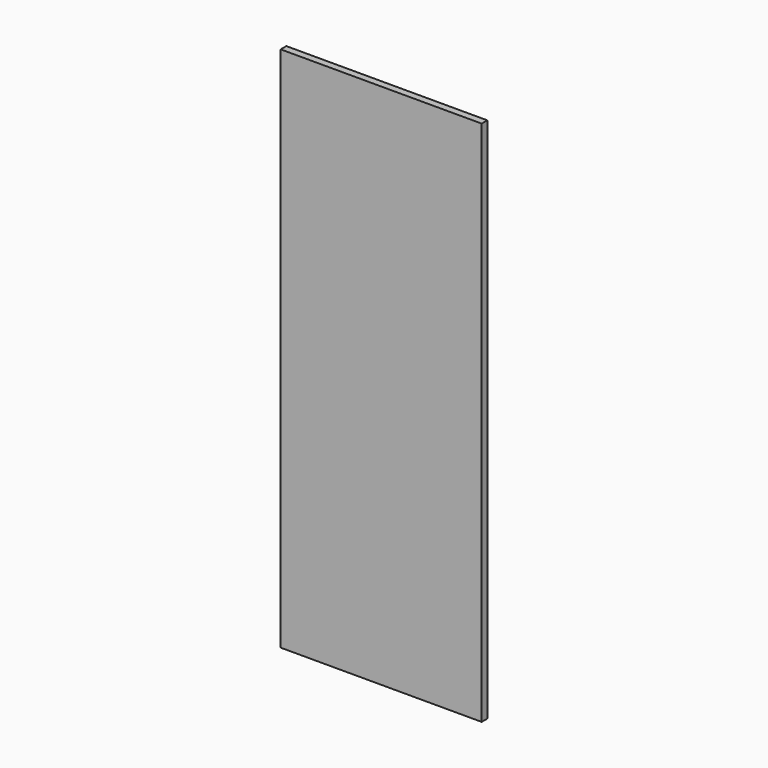
from build123d import *

# Parameters (mm, degrees)
SKETCH004_W  = 540
SKETCH004_H  = 1415
PAD004_DEPTH = 19


with BuildPart() as part:
    # Sketch004 → Pad004 (new body)
    with BuildSketch(Plane.XZ):
        Rectangle(SKETCH004_W, SKETCH004_H)
    extrude(amount=PAD004_DEPTH)


solid = part.part
